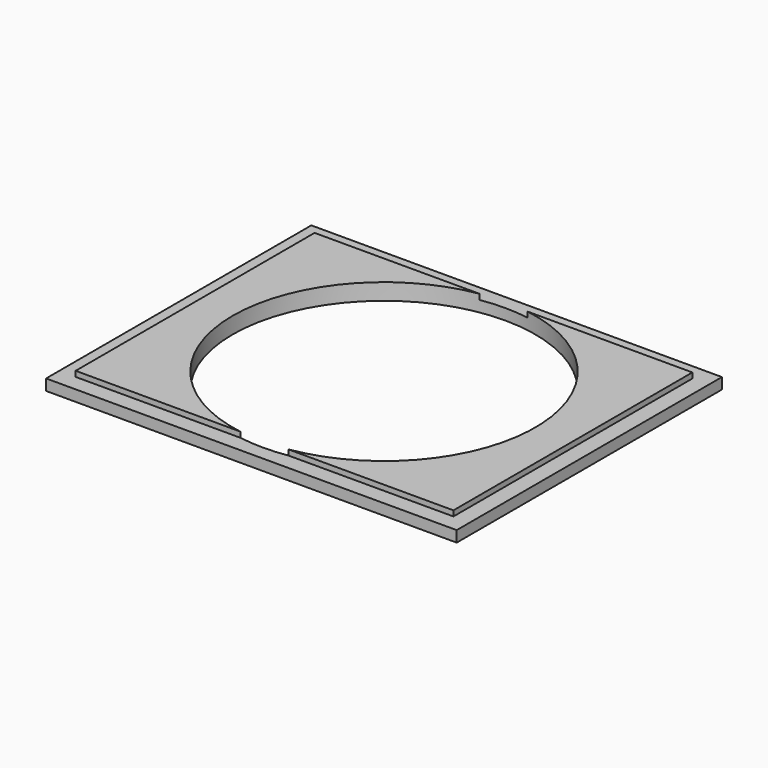
from build123d import *

# Parameters (mm, degrees)
F0_W     = 482.6
F0_H     = 389.636
F1_DEPTH = 19.304
F2_D     = 355.6
F3_W     = 19.304
F3_H     = 19.304
F3_W_2   = 443.992
F3_H_2   = 351.028
F4_DEPTH = 6.35


with BuildPart() as f1:
    # F0 (on Top) → F1 (new body)
    with BuildSketch(Plane.XY):
        Rectangle(F0_W, F0_H)
    extrude(amount=F1_DEPTH)

    # F2 (through all)
    with Locations(Plane(origin=(0, 0, 0), x_dir=(1, 0, 0), z_dir=(0, 0, -1))):
        with Locations((0, 0)):
            Hole(F2_D / 2)

    # F3 (on face) → F4 (cut)
    with BuildSketch(Plane.XY.offset(19.304)):
        with Locations((-231.648, 185.166)):
            Rectangle(F3_W, F3_H)
        with Locations((0, 185.166)):
            Rectangle(F3_W_2, F3_H)
        with Locations((-231.648, 0)):
            Rectangle(F3_W, F3_H_2)
        with Locations((231.648, 185.166)):
            Rectangle(F3_W, F3_H)
        with Locations((-231.648, -185.166)):
            Rectangle(F3_W, F3_H)
        with Locations((231.648, 0)):
            Rectangle(F3_W, F3_H_2)
        with Locations((0, -185.166)):
            Rectangle(F3_W_2, F3_H)
        with Locations((231.648, -185.166)):
            Rectangle(F3_W, F3_H)
    extrude(amount=-F4_DEPTH, mode=Mode.SUBTRACT)


solid = f1.part
